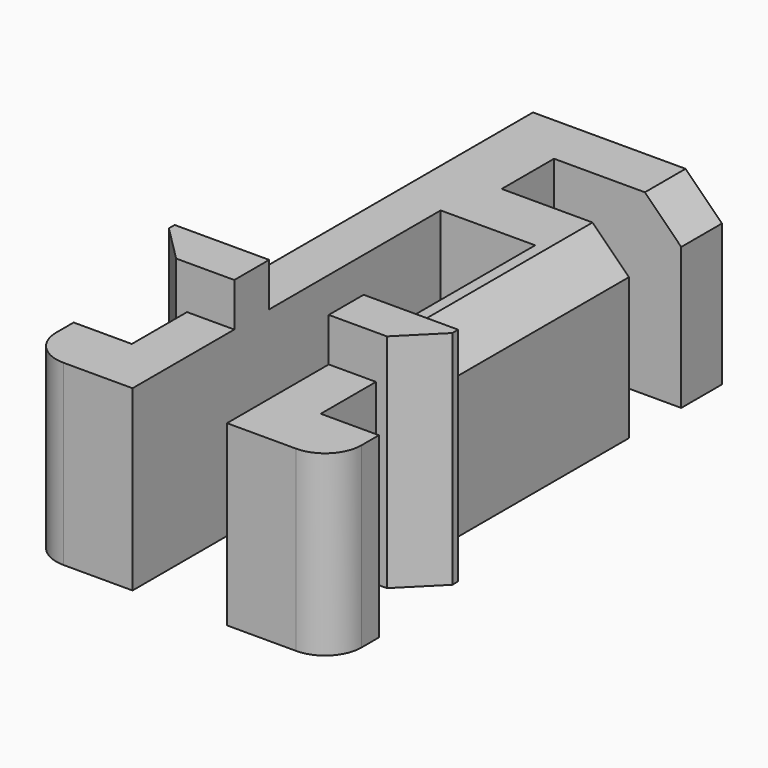
from build123d import *

# Parameters (mm, degrees)
PAD016_DEPTH    = 4.9
SKETCH032_W     = 2.6
SKETCH032_H     = 1.2
PAD017_DEPTH    = 6.1
SKETCH031_W     = 3.5
SKETCH031_H     = 1.8
POCKET013_DEPTH = 3.4
CHAMFER_SIZE    = 1
FILLET010_R     = 1
SKETCH040_W     = 3.5
SKETCH040_H     = 1.8
POCKET016_DEPTH = 4.901


with BuildPart() as part:
    # Sketch030 → Pad016 (new body)
    with BuildSketch(Plane.XY):
        Polygon((0, 9), (0, 13.8), (2.6, 13.8), (2.6, 0), (4.2, 0), (4.2, -1.6), (1.3, -1.6), (1.3, 9), align=None)
    pad016 = extrude(amount=PAD016_DEPTH)

    # Mirrored006: Pad016 across Sketch030 V_Axis
    add(pad016.mirror(Plane(origin=(0, 0, 0), x_dir=(0, 0, 1), z_dir=(1, 0, 0))))

    # Sketch032 → Pad017 (join)
    with BuildSketch(Plane.XY):
        with Locations((2.6, 2.5)):
            Rectangle(SKETCH032_W, SKETCH032_H)
    pad017 = extrude(amount=PAD017_DEPTH)

    # Mirrored007: Pad017 across Sketch032 V_Axis
    add(pad017.mirror(Plane(origin=(0, 0, 0), x_dir=(0, 0, 1), z_dir=(1, 0, 0))))

    # Sketch031 (on Face5 of Mirrored007) → Pocket013 (cut)
    with BuildSketch(Plane.XY.offset(4.9)):
        with Locations((0.85, 11.5)):
            Rectangle(SKETCH031_W, SKETCH031_H)
    extrude(amount=-POCKET013_DEPTH, mode=Mode.SUBTRACT)

    # Chamfer
    chamfer_edges = [part.edges().sort_by_distance(p)[0] for p in [
        (-3.9, 1.9, 3.05),
        (3.9, 1.9, 3.05),
        (2.6, 6.85, 4.9),
        (2.6, 13.1, 4.9),
    ]]
    chamfer(chamfer_edges, length=CHAMFER_SIZE)

    # Fillet010
    fillet010_edges = [part.edges().sort_by_distance(p)[0] for p in [
        (4.2, -1.6, 2.45),
        (-4.2, -1.6, 2.45),
    ]]
    fillet(fillet010_edges, radius=FILLET010_R)


with BuildPart() as part_1:
    # Body004 placement: moved
    add(part.part.moved(Location((-19.5, 0, 3.95))))


with BuildPart() as part_2:
    # Clone placement: moved
    add(part_1.part.moved(Location((19.5, 0, -3.95))))

    # Sketch040 (on Face31 of Fillet010) → Pocket016 (cut, through all)
    with BuildSketch(Plane.XY.offset(4.9)):
        with Locations((0.85, 11.5)):
            Rectangle(SKETCH040_W, SKETCH040_H)
    extrude(amount=-POCKET016_DEPTH, mode=Mode.SUBTRACT)


solid = part_2.part
